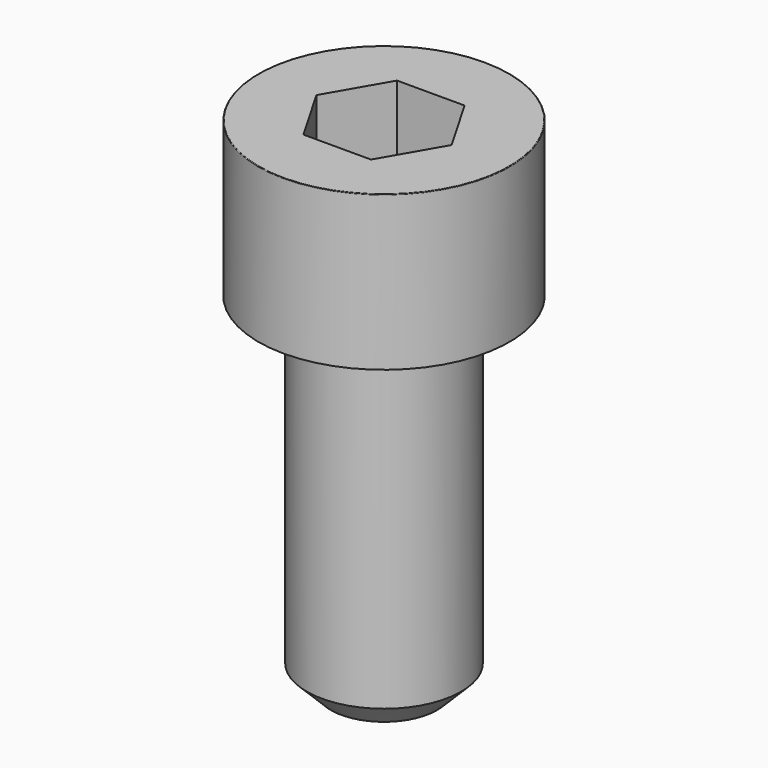
from build123d import *

# Parameters (mm, degrees)
POCKET_DEPTH = 6.06


with BuildPart() as part:
    # Sketch → Revolve (revolve)
    with BuildSketch(Plane.YZ):
        with BuildLine():
            Line((3.999, 0), (6.5, 0))
            Line((6.5, 0), (6.5, 7.97229))
            ThreePointArc((6.5, 7.97229), (6.491884, 7.991884), (6.47229, 8))
            Line((6.47229, 8), (0, 8))
            Line((0, -18), (0, 8))
            Line((2.75, -18), (0, -18))
            Line((4, -16.75), (2.75, -18))
            Line((4, -0.2), (4, -16.75))
            Line((3.999, 0), (4, -0.2))
        make_face()
    revolve(axis=Axis((0, 0, 0), (0, 0, 1)))

    # Sketch001 → Pocket (cut)
    with BuildSketch(Plane.XY.offset(8)):
        Polygon((3.498743, 0), (1.749371, 3.03), (-1.749371, 3.03), (-3.498743, 0), (-1.749371, -3.03), (1.749371, -3.03), align=None)
    extrude(amount=-POCKET_DEPTH, mode=Mode.SUBTRACT)


solid = part.part
